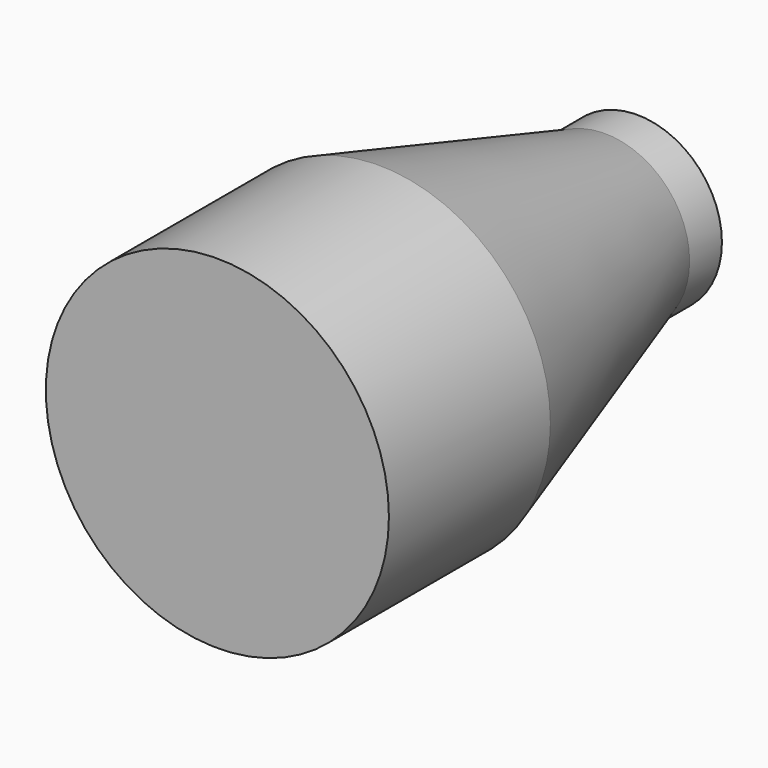
from build123d import *

# Parameters (mm, degrees)
F2_R      = 21
F3_DEPTH  = 10
F0_R      = 42.5
F4_DEPTH  = 50
F4_FACE_R = 42.5
F3_FACE_R = 21
F5_FACE_R = 42.5
F7_DEPTH  = 50


with BuildPart() as f3:
    # F2 (on offset) → F3 (new body)
    with BuildSketch(Plane.XZ.offset(-120)):
        Circle(F2_R)
    extrude(amount=-F3_DEPTH)


with BuildPart() as f4:
    # F0 (on Front) → F4 (new body)
    with BuildSketch(Plane.XZ):
        Circle(F0_R)
    extrude(amount=-F4_DEPTH)


with BuildPart() as f5:
    # F4_face (on face) → F5 section 0
    with BuildSketch(Plane(origin=(0, 50, 0), x_dir=(1, 0, 0), z_dir=(0, 1, 0))):
        Circle(F4_FACE_R)
    # F3_face (on face) → F5 section 1
    with BuildSketch(Plane.XZ.offset(-120)):
        Circle(F3_FACE_R)
    loft()

    # F5_face (on face) → F7 (join)
    with BuildSketch(Plane.XZ.offset(-50)):
        Circle(F5_FACE_R)
    extrude(amount=F7_DEPTH)


solid = Compound([f3.part, f5.part])
